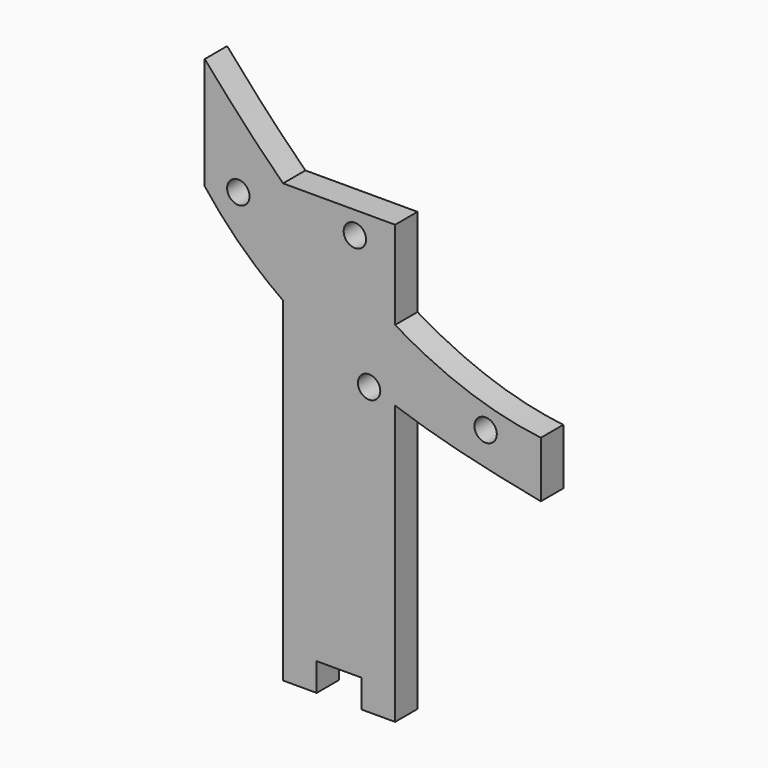
from build123d import *

# Parameters (mm, degrees)
F1_DEPTH  = 3.175
F2_W      = 12.7
F2_H      = 39.6141249724
F3_DEPTH  = 3.175
F5_DEPTH  = 3.175
F6_R      = 1.27
F7_DEPTH  = 3.1760001
F8_R      = 1.27
F9_DEPTH  = 3.1760001
F10_W     = 5.08
F10_H     = 6.35
F11_DEPTH = 25.4


with BuildPart() as f1:
    # F0 (on Front) → F1 (new body)
    with BuildSketch(Plane.XZ):
        with BuildLine():
            add(Edge.make_bspline(
                [(-38.1, 19.05), (-28.3741913736, 6.3939620741), (-14.1141656786, 2.7637183666), (0, 0)],
                knots=[0, 0, 0, 0, 42.5970949714, 42.5970949714, 42.5970949714, 42.5970949714], degree=3))
            Line((0, 0), (0, 6.35))
            add(Edge.make_bspline(
                [(-38.1, 31.75), (-29.2279217392, 21.5179808438), (-16.6689809412, 8.3035267889), (0, 6.35)],
                knots=[0, 0, 0, 0, 45.7905011984, 45.7905011984, 45.7905011984, 45.7905011984], degree=3))
            Line((-38.1, 31.75), (-38.1, 19.05))
        make_face()
    extrude(amount=F1_DEPTH)

    # F2 (on face) → F3 (join, through all)
    with BuildSketch(Plane.XZ.offset(3.175)):
        with Locations((-22.8709825013, -7.5756740422)):
            Rectangle(F2_W, F2_H)
    extrude(amount=-F3_DEPTH)

    # F4 (on face) → F5 (join, through all)
    with BuildSketch(Plane.XZ.offset(3.175)):
        with BuildLine():
            Line((-16.5209825013, 22.2295189018), (-29.2209825013, 22.2295189018))
            add(Edge.make_bspline(
                [(-16.5209825013, 12.2313884441), (-21.2089143391, 15.0429542082), (-25.4366525194, 18.5639866867), (-29.2209825013, 22.2295189018)],
                knots=[45.7905011984, 45.7905011984, 45.7905011984, 45.7905011984, 61.4068288598, 61.4068288598, 61.4068288598, 61.4068288598], degree=3))
            Line((-16.5209825013, 12.2313884441), (-16.5209825013, 22.2295189018))
        make_face()
    extrude(amount=-F5_DEPTH)

    # F6 (on face) → F7 (cut, through all)
    with BuildSketch(Plane.XZ.offset(3.175)):
        with Locations((-34.29, 19.6895189018)):
            Circle(F6_R)
        with Locations((-21.082, 19.6895189018)):
            Circle(F6_R)
    extrude(amount=-F7_DEPTH, mode=Mode.SUBTRACT)

    # F8 (on face) → F9 (cut, through all)
    with BuildSketch(Plane.XZ.offset(3.175)):
        with Locations((-19.4714572281, 5.08)):
            Circle(F8_R)
        with Locations((-6.2634572281, 5.08)):
            Circle(F8_R)
    extrude(amount=-F9_DEPTH, mode=Mode.SUBTRACT)

    # F10 (on face) → F11 (cut)
    with BuildSketch(Plane.XZ.offset(3.175)):
        with Locations((-22.8709825013, -27.3827365284)):
            Rectangle(F10_W, F10_H)
    extrude(amount=-F11_DEPTH, mode=Mode.SUBTRACT)


solid = f1.part
